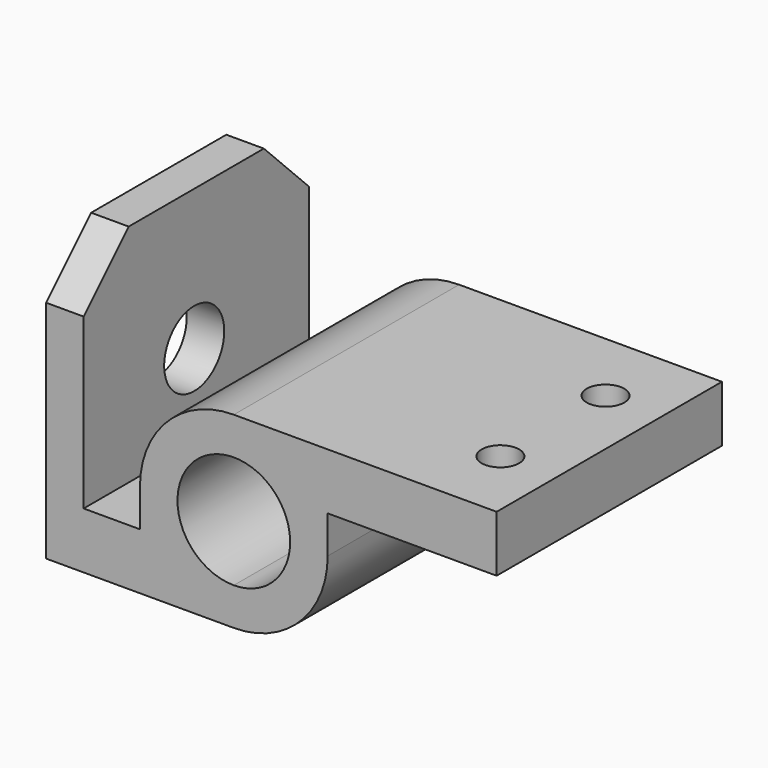
from build123d import *

# Parameters (mm, degrees)
F1_DEPTH = 75
F2_R     = 5
F3_DEPTH = 25
F5_DEPTH = 25
F7_R     = 10
F8_DEPTH = 10


with BuildPart() as f1:
    # F0 (on Front) → F1 (new body)
    with BuildSketch(Plane.XZ):
        with BuildLine():
            Line((-50, 0), (0, 0))
            ThreePointArc((0, 0), (17.67767, 7.32233), (25, 25))
            Line((25, 25), (25, 35))
            Line((25, 35), (70, 35))
            Line((70, 35), (70, 50))
            Line((70, 50), (0, 50))
            ThreePointArc((0, 50), (-17.67767, 42.67767), (-25, 25))
            Line((-25, 25), (-25, 15))
            Line((-25, 15), (-40, 15))
            Line((-40, 15), (-40, 75))
            Line((-40, 75), (-50, 75))
            Line((-50, 75), (-50, 0))
        make_face()
        with BuildLine():
            ThreePointArc((0, 10), (-10.606602, 35.606602), (15, 25))
            ThreePointArc((15, 25), (10.606602, 14.393398), (0, 10))
        make_face(mode=Mode.SUBTRACT)
    extrude(amount=F1_DEPTH)

    # F2 (on face) → F3 (cut)
    with BuildSketch(Plane.XY.offset(50)):
        with Locations((55, -20)):
            Circle(F2_R)
        with Locations((55, -55)):
            Circle(F2_R)
    extrude(amount=-F3_DEPTH, mode=Mode.SUBTRACT)

    # F4 (on face) → F5 (cut)
    with BuildSketch(Plane(origin=(-50, 0, 0), x_dir=(0, -1, 0), z_dir=(-1, 0, 0))):
        Polygon((0, 60), (15, 75), (0, 75), align=None)
        Polygon((75, 75), (60, 75), (75, 60), align=None)
    extrude(amount=-F5_DEPTH, mode=Mode.SUBTRACT)

    # F7 (on face) → F8 (cut)
    with BuildSketch(Plane.YZ.offset(-40)):
        with Locations((-38.184846, 37.546992)):
            Circle(F7_R)
    extrude(amount=-F8_DEPTH, mode=Mode.SUBTRACT)


solid = f1.part
